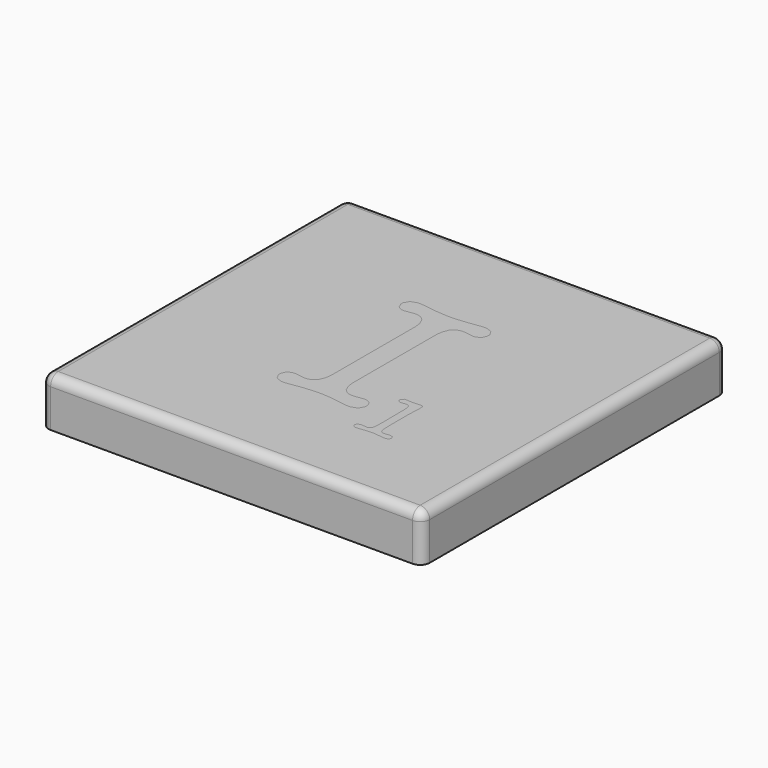
from build123d import *

# Parameters (mm, degrees)
F0_W     = 40
F0_H     = 40
F1_DEPTH = 5
F2_R     = 1
F5_DEPTH = 3


with BuildPart() as f1:
    # F0 (on Top) → F1 (new body)
    with BuildSketch(Plane.XY):
        Rectangle(F0_W, F0_H)
    extrude(amount=-F1_DEPTH)

    # F2
    f2_edges = [f1.edges().sort_by_distance(p)[0] for p in [
        (0, -20, 0),
        (20, 0, 0),
        (0, 20, 0),
        (-20, 0, 0),
        (-20, 20, -2.5),
        (20, 20, -2.5),
        (-20, -20, -2.5),
        (20, -20, -2.5),
    ]]
    fillet(f2_edges, radius=F2_R)


with BuildPart() as f5:
    # F4 (on Top) + F3 (on Top) → F5 (new body)
    with BuildSketch(Plane.XY):
        Polygon((7.380213, -6.520249), (7.409144, -9.281839), (7.409144, -9.503682), (7.389865, -10.169289), (7.345746, -10.595095), (7.33335, -10.639189), (7.319584, -10.681912), (7.026061, -10.901013), (6.92408, -10.901013), (6.860682, -10.901013), (6.674652, -10.885849), (6.637441, -10.883106), (6.611254, -10.877594), (6.415572, -10.854175), (6.342547, -10.854175), (6.254358, -10.854175), (5.991138, -10.936852), (5.87539, -11.124253), (5.87539, -11.187652), (5.87539, -11.25105), (5.977371, -11.443963), (6.207495, -11.53078), (6.284661, -11.53078), (6.390782, -11.53078), (6.713235, -11.489454), (6.771121, -11.482546), (6.871705, -11.467382), (7.541453, -11.397125), (7.799136, -11.397125), (8.070611, -11.397125), (8.885036, -11.483943), (9.018691, -11.50185), (9.04211, -11.504593), (9.246072, -11.521128), (9.323237, -11.521128), (9.401799, -11.521128), (9.637435, -11.43708), (9.743531, -11.249653), (9.743531, -11.187652), (9.743531, -11.124253), (9.627783, -10.936852), (9.371472, -10.854175), (9.286026, -10.854175), (9.006296, -10.873454), (8.971854, -10.877594), (8.936014, -10.881734), (8.736192, -10.901013), (8.657656, -10.901013), (8.57635, -10.901013), (8.332434, -10.735659), (8.220801, -10.35255), (8.219429, -10.243686), (8.219429, -10.070052), (8.202894, -9.553289), (8.200151, -9.454076), (8.197382, -9.371399), (8.190499, -8.663095), (8.190499, -7.586821), (8.190499, -7.166527), (8.229081, -5.908389), (8.237336, -5.738869), (8.238733, -5.704452), (8.246988, -5.566657), (8.246988, -5.510142), (8.246988, -5.43986), (8.215289, -5.229015), (8.209777, -5.215248), (8.201522, -5.194572), (8.015493, -5.09122), (7.952094, -5.09122), (7.873558, -5.09122), (7.637896, -5.114639), (7.589662, -5.120125), (7.556591, -5.122919), (7.210719, -5.139429), (7.085319, -5.139429), (7.001245, -5.139429), (6.749074, -5.118753), (6.709095, -5.114639), (6.667769, -5.110498), (6.440388, -5.09122), (6.352199, -5.09122), (6.26401, -5.09122), (5.999419, -5.340622), (5.999419, -5.424696), (5.999419, -5.486698), (6.091748, -5.67415), (6.301196, -5.758173), (6.371478, -5.758173), (6.432108, -5.758173), (6.616766, -5.737497), (6.647093, -5.734754), (6.677421, -5.730614), (6.853798, -5.709938), (6.92408, -5.709938), (7.009526, -5.709938), (7.265837, -5.84499), (7.281001, -5.872575), (7.296139, -5.898762), (7.378842, -6.438918), align=None)
    with BuildSketch(Plane.XY):
        Polygon((-1.111377, 5.533542), (-1.111377, 5.318557), (-1.111377, -5.290947), (-1.111377, -5.507304), (-1.196823, -6.159144), (-1.449019, -6.77926), (-1.870685, -7.151319), (-2.313051, -7.275347), (-2.460498, -7.275347), (-2.588641, -7.275347), (-2.968981, -7.209206), (-3.017215, -7.196811), (-3.115056, -7.187159), (-3.553282, -7.143064), (-3.731031, -7.143064), (-3.885387, -7.143064), (-4.347032, -7.353884), (-4.550969, -7.830693), (-4.550969, -7.990561), (-4.550969, -8.16831), (-4.267098, -8.704377), (-3.627679, -8.942781), (-3.41409, -8.942781), (-3.201873, -8.942781), (-3.179826, -8.937269), (-3.064078, -8.916594), (-3.017215, -8.916594), (-1.799031, -8.730564), (-1.654327, -8.708517), (-0.310744, -8.598256), (0.185369, -8.598256), (0.520217, -8.598256), (1.524787, -8.68647), (1.640561, -8.704377), (3.015844, -8.916594), (3.057169, -8.916594), (3.182595, -8.937269), (3.200476, -8.942781), (3.386531, -8.942781), (3.60426, -8.942781), (4.258818, -8.704377), (4.550994, -8.16831), (4.550994, -7.990561), (4.550994, -7.830693), (4.344264, -7.353884), (3.882619, -7.143064), (3.729634, -7.143064), (3.571189, -7.143064), (3.098521, -7.209206), (3.015844, -7.222973), (2.957932, -7.231253), (2.598293, -7.275347), (2.460498, -7.275347), (2.311654, -7.275347), (1.869313, -7.151319), (1.447622, -6.77926), (1.195426, -6.159144), (1.111402, -5.507304), (1.111402, -5.290947), (1.111402, 5.318557), (1.111402, 5.533542), (1.195426, 6.175705), (1.447622, 6.787515), (1.869313, 7.155459), (2.311654, 7.276744), (2.460498, 7.276744), (2.59141, 7.276744), (2.984144, 7.23265), (3.015844, 7.222998), (3.09024, 7.210603), (3.550514, 7.144461), (3.729634, 7.144461), (3.864712, 7.144461), (4.27261, 7.35391), (4.312564, 7.395261), (4.351172, 7.437958), (4.550994, 7.862392), (4.550994, 8.016748), (4.550994, 8.190382), (4.258818, 8.711286), (3.60426, 8.942781), (3.386531, 8.942781), (3.302457, 8.942781), (3.050311, 8.922106), (3.015844, 8.916594), (1.825219, 8.758123), (1.661236, 8.736076), (0.474751, 8.62584), (0.025476, 8.62584), (-0.352095, 8.62584), (-1.48209, 8.714029), (-1.614373, 8.731961), (-3.017215, 8.916594), (-3.053055, 8.922106), (-3.294202, 8.942781), (-3.386531, 8.942781), (-3.605632, 8.942781), (-4.260215, 8.711286), (-4.550969, 8.190382), (-4.550969, 8.016748), (-4.550969, 7.87207), (-4.352544, 7.437958), (-4.312564, 7.395261), (-4.273982, 7.35391), (-3.877107, 7.144461), (-3.731031, 7.144461), (-3.571189, 7.144461), (-3.087497, 7.210603), (-3.017215, 7.222998), (-2.986888, 7.23265), (-2.599665, 7.276744), (-2.460498, 7.276744), (-2.313051, 7.276744), (-1.870685, 7.155459), (-1.449019, 6.787515), (-1.196823, 6.175705), align=None)
    extrude(amount=-F5_DEPTH)


solid = Compound([f1.part, f5.part])
